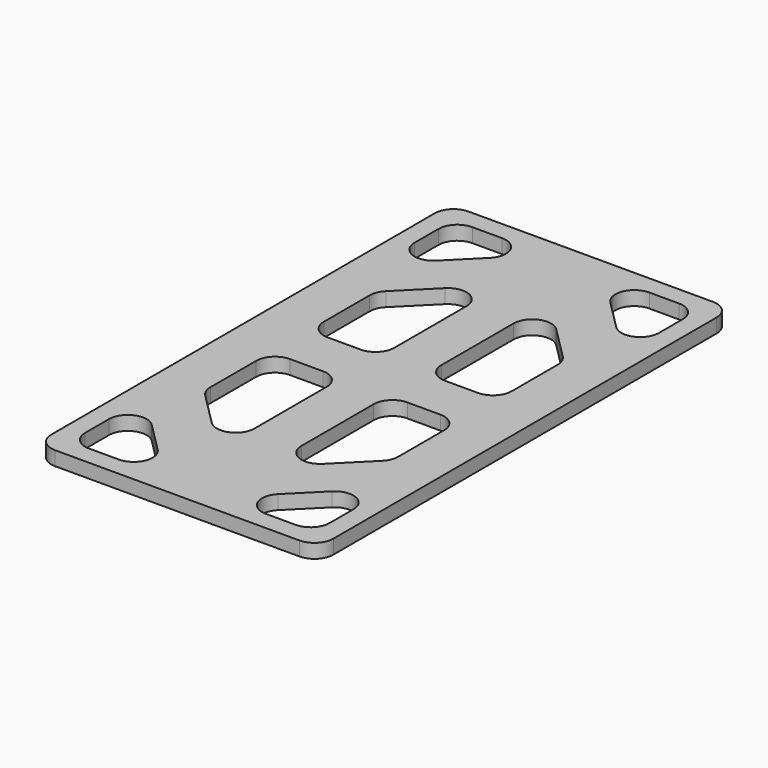
from build123d import *

# Parameters (mm, degrees)
F0_W     = 30
F0_H     = 55
F1_DEPTH = 1.5
F2_R     = 2


with BuildPart() as f1:
    # F0 (on Top) → F1 (new body)
    with BuildSketch(Plane.XY):
        with Locations((15, 27.5)):
            Rectangle(F0_W, F0_H)
        Polygon((12, 2), (2, 2), (2, 12), (2, 43), (2, 53), (12, 53), (18, 53), (28, 53), (28, 43), (28, 12), (28, 2), (18, 2), align=None, mode=Mode.SUBTRACT)
        Polygon((2, 43), (2, 12), (12, 2), (18, 2), (28, 12), (28, 43), (18, 53), (12, 53), align=None)
        Polygon((12.500001, 8.571066), (5, 16.071067), (5, 24.999999), (12.500001, 24.999999), (17.500001, 24.999999), (25, 24.999999), (25, 16.071067), (17.500001, 8.571068), (15, 6.071067), align=None, mode=Mode.SUBTRACT)
        Polygon((5.000001, 29.999999), (5.000001, 38.928931), (12.500001, 46.428931), (15.000001, 48.928931), (17.500001, 46.428931), (25.000001, 38.928931), (25.000001, 29.999999), (17.500001, 29.999999), (12.500001, 29.999999), align=None, mode=Mode.SUBTRACT)
        Polygon((15.000001, 48.928931), (12.500001, 46.428931), (12.500001, 29.999999), (17.500001, 29.999999), (17.500001, 46.428931), align=None)
        Polygon((12.500001, 24.999999), (12.500001, 8.571066), (15, 6.071067), (17.500001, 8.571068), (17.500001, 24.999999), align=None)
    extrude(amount=F1_DEPTH)

    # F2
    f2_edges = [f1.edges().sort_by_distance(p)[0] for p in [
        (2, 53, 0.75),
        (12, 53, 0.75),
        (2, 43, 0.75),
        (0, 55, 0.75),
        (30, 55, 0.75),
        (30, 0, 0.75),
        (0, 0, 0.75),
        (28, 53, 0.75),
        (18, 53, 0.75),
        (28, 43, 0.75),
        (25.000001, 29.999999, 0.75),
        (17.500001, 29.999999, 0.75),
        (17.500001, 46.428931, 0.75),
        (25.000001, 38.928931, 0.75),
        (12.500001, 46.428931, 0.75),
        (5.000001, 38.928931, 0.75),
        (5.000001, 29.999999, 0.75),
        (12.500001, 29.999999, 0.75),
        (12.500001, 8.571066, 0.75),
        (5, 16.071067, 0.75),
        (5, 24.999999, 0.75),
        (12.500001, 24.999999, 0.75),
        (25, 24.999999, 0.75),
        (25, 16.071067, 0.75),
        (17.500001, 24.999999, 0.75),
        (17.500001, 8.571068, 0.75),
        (2, 2, 0.75),
        (2, 12, 0.75),
        (12, 2, 0.75),
        (28, 12, 0.75),
        (28, 2, 0.75),
        (18, 2, 0.75),
    ]]
    fillet(f2_edges, radius=F2_R)


solid = f1.part
